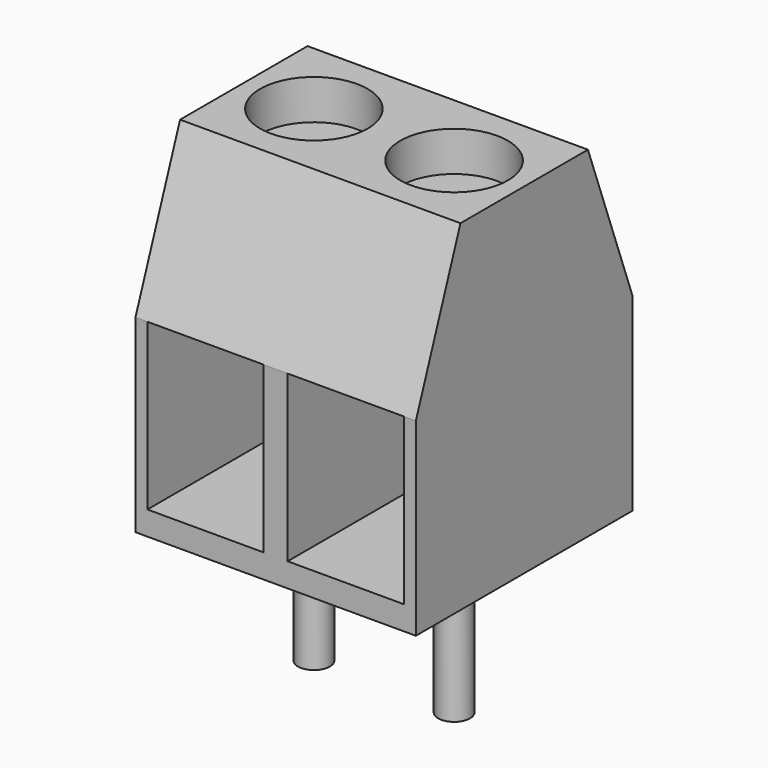
from build123d import *

# Parameters (mm, degrees)
F0_W     = 7.04
F0_H     = 8.55
F1_DEPTH = 6.8
F3_DEPTH = 7.04
F4_W     = 2.92
F4_H     = 4.15
F5_DEPTH = 5
F6_R     = 1.35
F7_DEPTH = 1
F8_R     = 0.4
F9_DEPTH = 3.65


with BuildPart() as f1:
    # F0 (on Front) → F1 (new body)
    with BuildSketch(Plane.XZ):
        with Locations((3.52, 4.275)):
            Rectangle(F0_W, F0_H)
    extrude(amount=F1_DEPTH)

    # F2 (on face) → F3 (cut, through all)
    with BuildSketch(Plane.YZ.offset(7.04)):
        Polygon((-6.8, 8.55), (-6.8, 4.75), (-5.4, 8.55), align=None)
        Polygon((0, 4.75), (0, 8.55), (-1.4, 8.55), align=None)
    extrude(amount=-F3_DEPTH, mode=Mode.SUBTRACT)

    # F4 (on face) → F5 (cut)
    with BuildSketch(Plane.XZ.offset(6.8)):
        with Locations((1.76, 2.675)):
            Rectangle(F4_W, F4_H)
        with Locations((5.28, 2.675)):
            Rectangle(F4_W, F4_H)
    extrude(amount=-F5_DEPTH, mode=Mode.SUBTRACT)

    # F6 (on face) → F7 (cut)
    with BuildSketch(Plane.XY.offset(8.55)):
        with Locations((1.76, -3.4)):
            Circle(F6_R)
        with Locations((5.28, -3.4)):
            Circle(F6_R)
    extrude(amount=-F7_DEPTH, mode=Mode.SUBTRACT)

    # F8 (on face) → F9 (join)
    with BuildSketch(Plane(origin=(0, 0, 0), x_dir=(1, 0, 0), z_dir=(0, 0, -1))):
        with Locations((1.76, 3.4)):
            Circle(F8_R)
        with Locations((5.28, 3.4)):
            Circle(F8_R)
    extrude(amount=F9_DEPTH)


solid = f1.part
